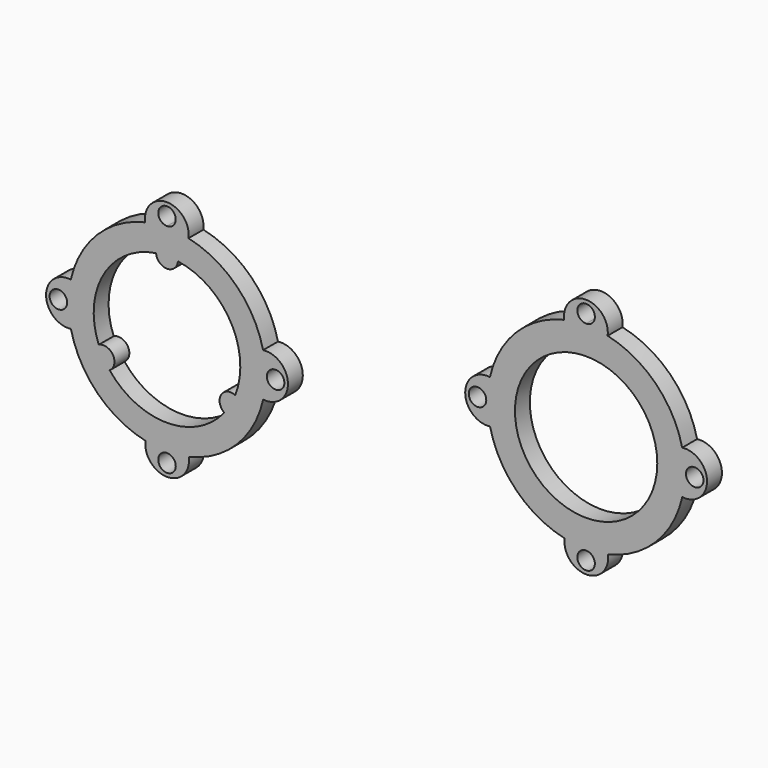
from build123d import *

# Parameters (mm, degrees)
F0_R     = 2.032
F1_DEPTH = 4.318
F0_R_2   = 16.51


with BuildPart() as f1:
    # F0 (on Front) → F1 (new body)
    with BuildSketch(Plane.XZ):
        with BuildLine():
            ThreePointArc((-75.7809386904, 25.4119643962), (-81.5230285615, 20.3651178493), (-75.7607603929, 15.3413223012))
            ThreePointArc((-75.7607603929, 15.3413223012), (-69.6043911518, 4.2245054637), (-58.4629929439, -1.8872655403))
            ThreePointArc((-58.4629929439, -1.8872655403), (-53.416146397, -7.6293554114), (-48.3923508489, -1.8670872428))
            ThreePointArc((-48.3923508489, -1.8670872428), (-37.2755340114, 4.2892819983), (-31.1637630075, 15.4306802062))
            ThreePointArc((-31.1637630075, 15.4306802062), (-25.4216731363, 20.4775267531), (-31.1839413049, 25.5013223012))
            ThreePointArc((-31.1839413049, 25.5013223012), (-37.3403105461, 36.6181391387), (-48.4817087539, 42.7299101426))
            ThreePointArc((-48.4817087539, 42.7299101426), (-53.5285553008, 48.4720000138), (-58.5523508489, 42.7097318451))
            ThreePointArc((-58.5523508489, 42.7097318451), (-69.6691676864, 36.553362604), (-75.7809386904, 25.4119643962))
        make_face()
        with Locations((-53.4723508489, -4.7754776988)):
            Circle(F0_R, mode=Mode.SUBTRACT)
        with Locations((-78.6691508489, 20.4213223012)):
            Circle(F0_R, mode=Mode.SUBTRACT)
        with BuildLine():
            ThreePointArc((-50.9394441665, 37.2369284998), (-38.7453290499, 28.9239723012), (-37.6431553596, 14.2070807342))
            ThreePointArc((-37.6431553596, 14.2070807342), (-40.9450335756, 13.1886723012), (-40.176062042, 9.8199576695))
            ThreePointArc((-40.176062042, 9.8199576695), (-53.4723508489, 3.4160223012), (-66.7686396558, 9.8199576695))
            ThreePointArc((-66.7686396558, 9.8199576695), (-65.9996681223, 13.1886723012), (-69.3015463382, 14.2070807342))
            ThreePointArc((-69.3015463382, 14.2070807342), (-68.1993726479, 28.9239723012), (-56.0052575313, 37.2369284998))
            ThreePointArc((-56.0052575313, 37.2369284998), (-53.4723508489, 34.8866223012), (-50.9394441665, 37.2369284998))
        make_face(mode=Mode.SUBTRACT)
        with Locations((-28.2755508489, 20.4213223012)):
            Circle(F0_R, mode=Mode.SUBTRACT)
        with BuildLine():
            ThreePointArc((-53.4723508489, 43.5861223012), (-54.9091918283, 47.0549632805), (-51.4403508489, 45.6181223012))
            ThreePointArc((-51.4403508489, 45.6181223012), (-52.0355098695, 44.1812813218), (-53.4723508489, 43.5861223012))
        make_face(mode=Mode.SUBTRACT)
    extrude(amount=F1_DEPTH)


with BuildPart() as f1b:
    # F0 (on Front) → F1, piece 2 (new body)
    with BuildSketch(Plane.XZ):
        with BuildLine():
            ThreePointArc((48.7449477855, 54.432896421), (43.6981012386, 60.1749862921), (38.6743056905, 54.4127181235))
            ThreePointArc((38.6743056905, 54.4127181235), (27.557488853, 48.2563488824), (21.4457178491, 37.1149506745))
            ThreePointArc((21.4457178491, 37.1149506745), (15.7036279779, 32.0681041276), (21.4658961466, 27.0443085795))
            ThreePointArc((21.4658961466, 27.0443085795), (27.6222653877, 15.9274917421), (38.7636635955, 9.8157207381))
            ThreePointArc((38.7636635955, 9.8157207381), (43.8105101424, 4.0736308669), (48.8343056905, 9.8358990356))
            ThreePointArc((48.8343056905, 9.8358990356), (59.951122528, 15.9922682767), (66.062893532, 27.1336664846))
            ThreePointArc((66.062893532, 27.1336664846), (71.8049834031, 32.1805130314), (66.0427152345, 37.2043085795))
            ThreePointArc((66.0427152345, 37.2043085795), (59.8863459934, 48.321125417), (48.7449477855, 54.432896421))
        make_face()
        with Locations((43.7543056905, 6.9275085795)):
            Circle(F0_R, mode=Mode.SUBTRACT)
        with Locations((18.5575056905, 32.1243085795)):
            Circle(F0_R, mode=Mode.SUBTRACT)
        with Locations((43.7543056905, 32.1243085795)):
            Circle(F0_R_2, mode=Mode.SUBTRACT)
        with Locations((68.9511056905, 32.1243085795)):
            Circle(F0_R, mode=Mode.SUBTRACT)
        with BuildLine():
            ThreePointArc((43.7543056905, 55.2891085795), (42.3174647112, 58.7579495589), (45.7863056905, 57.3211085795))
            ThreePointArc((45.7863056905, 57.3211085795), (45.1911466699, 55.8842676002), (43.7543056905, 55.2891085795))
        make_face(mode=Mode.SUBTRACT)
    extrude(amount=F1_DEPTH)


solid = Compound([f1.part, f1b.part])
